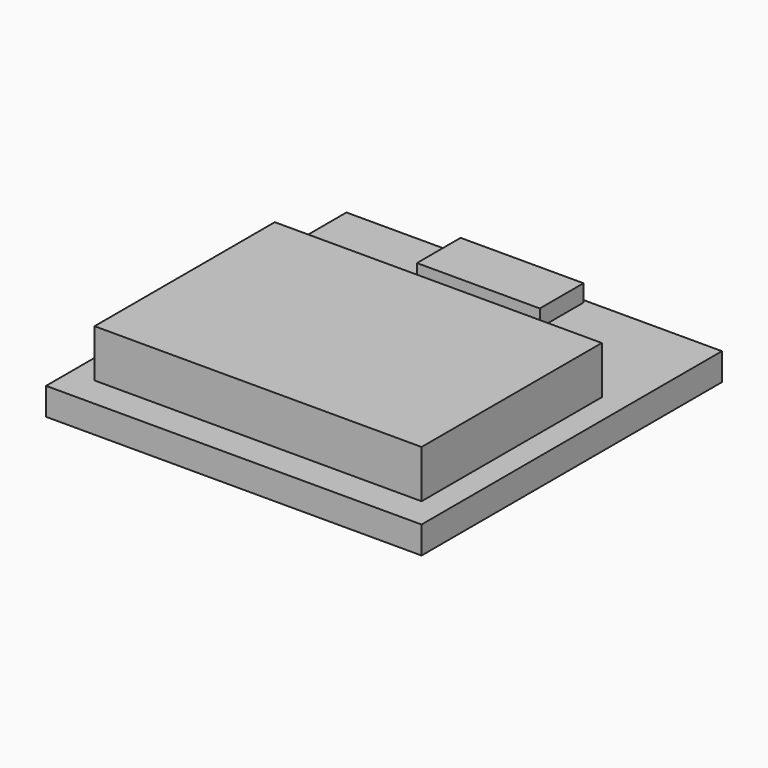
from build123d import *

# Parameters (mm, degrees)
SKETCH_W         = 11
SKETCH_H         = 11
EXTRUDE001_DEPTH = 0.8
SKETCH001_W      = 9.580367
SKETCH001_H      = 6.6
EXTRUDE_DEPTH    = 1.4
SKETCH002_W      = 3.6
SKETCH002_H      = 1.6
EXTRUDE002_DEPTH = 0.5


with BuildPart() as extrude001:
    # Sketch → Extrude001 (new body)
    with BuildSketch(Plane.XY):
        with Locations((5.5, 5.5)):
            Rectangle(SKETCH_W, SKETCH_H)
    extrude(amount=EXTRUDE001_DEPTH)


with BuildPart() as extrude_body:
    # Sketch001 (on Face6 of Extrude001) → Extrude (new body)
    with BuildSketch(Plane.XY.offset(0.8)):
        with Locations((5.490183, 4.2)):
            Rectangle(SKETCH001_W, SKETCH001_H)
    extrude(amount=EXTRUDE_DEPTH)


with BuildPart() as extrude002:
    # Sketch002 (on Face6 of Extrude001) → Extrude002 (new body)
    with BuildSketch(Plane.XY.offset(0.8)):
        with Locations((5.224448, 10.1)):
            Rectangle(SKETCH002_W, SKETCH002_H)
    extrude(amount=EXTRUDE002_DEPTH)


solid = Compound([extrude001.part, extrude_body.part, extrude002.part])
